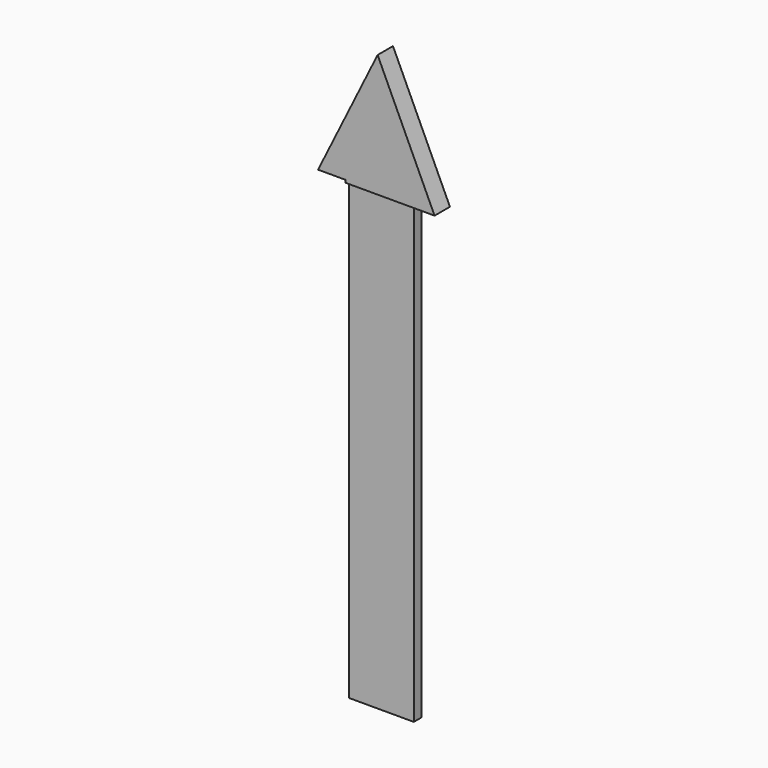
from build123d import *

# Parameters (mm, degrees)
F0_W     = 8.559496
F0_H     = 120.517694
F1_DEPTH = 1.27
F2_DEPTH = 2.54


with BuildPart() as f1:
    # F0 (on Front) → F1 (new body, symmetric)
    with BuildSketch(Plane.XZ):
        with Locations((-8.730684, -26.020866)):
            Rectangle(F0_W, F0_H)
        with Locations((-0.171188, -26.020866)):
            Rectangle(F0_W, F0_H)
    extrude(amount=F1_DEPTH, both=True)

    # F0 (on Front) → F2 (join, symmetric)
    with BuildSketch(Plane.XZ):
        Polygon((-20.200407, 34.922738), (-13.010432, 34.922738), (-13.010432, 34.237981), (-4.450936, 34.237981), (-4.450936, 66.764057), align=None)
        Polygon((-4.450936, 66.764057), (-4.450936, 34.237981), (4.10856, 34.237981), (10.613775, 34.237981), align=None)
    extrude(amount=F2_DEPTH, both=True)


solid = f1.part
